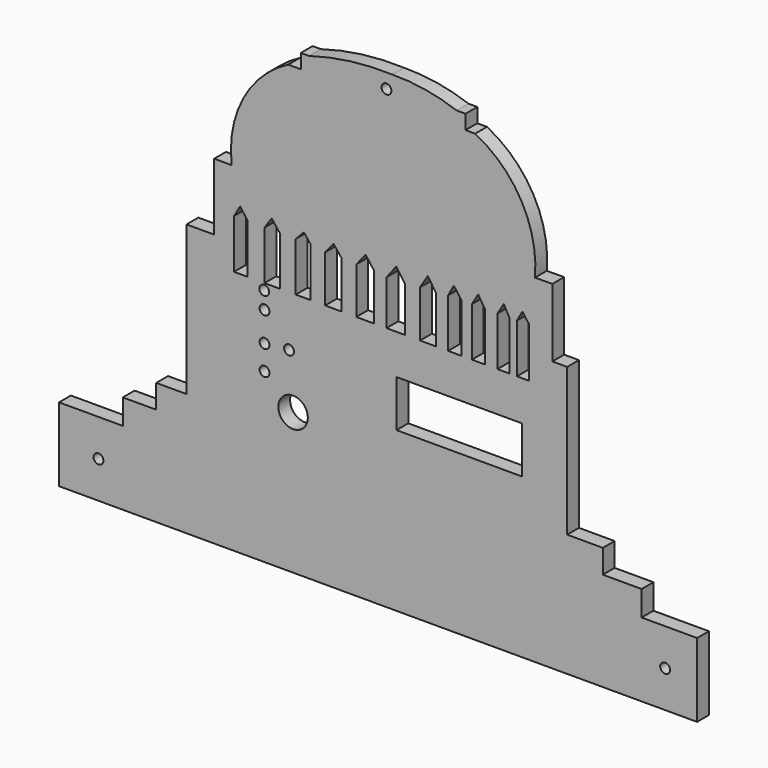
from build123d import *

# Parameters (mm, degrees)
F0_R          = 2
F0_R_2        = 6
F0_W          = 51
F0_H          = 19
F1_DEPTH      = 3
F1_DEPTH_BACK = 3
F2_DEPTH      = 3


with BuildPart() as f1:
    # F0 (on Front) → F1 (new body, two sides)
    with BuildSketch(Plane.XZ) as f1_sk:
        Polygon((52.472187, -161.24922), (26.581464, -161.24922), (26.581464, -191.24922), (285.798032, -191.24922), (285.798032, -161.24922), (263.240432, -161.24922), align=None)
        with Locations((42.581464, -176.24922)):
            Circle(F0_R, mode=Mode.SUBTRACT)
        with Locations((272.798032, -176.24922)):
            Circle(F0_R, mode=Mode.SUBTRACT)
        Polygon((52.472187, -151.052892), (52.472187, -161.24922), (263.240432, -161.24922), (263.240432, -151.052892), (247.487148, -151.052892), (66.052614, -151.052892), align=None)
        Polygon((66.052614, -141.450859), (66.052614, -151.052892), (247.487148, -151.052892), (247.487148, -141.450859), (233.003996, -141.450859), (78.357242, -141.450859), align=None)
        Polygon((78.357242, -80.774188), (78.357242, -141.450859), (233.003996, -141.450859), (233.003996, -81.450859), (226.991639, -81.450859), (221.457498, -91.450859), (217.57254, -91.450859), (212.587059, -91.450859), (209.57654, -91.450859), (204.673612, -91.450859), (199.559822, -91.450859), (194.298849, -91.450859), (190.03109, -91.450859), (184.636118, -91.450859), (179.739267, -91.450859), (173.225334, -91.450859), (167.207984, -91.450859), (159.590964, -91.450859), (154.603716, -91.450859), (147.321078, -91.450859), (141.375312, -91.450859), (134.690078, -91.450859), (128.813708, -91.450859), (122.717327, -91.450859), (116.260559, -91.450859), (110.056117, -91.450859), (103.166793, -91.450859), (97.665451, -91.450859), (89.594654, -80.774188), align=None)
        with Locations((121.645503, -133.909166)):
            Circle(F0_R_2, mode=Mode.SUBTRACT)
        with Locations((110.056117, -123.021676)):
            Circle(F0_R, mode=Mode.SUBTRACT)
        with Locations((110.056117, -113.021676)):
            Circle(F0_R, mode=Mode.SUBTRACT)
        with Locations((120.015055, -112.116382)):
            Circle(F0_R, mode=Mode.SUBTRACT)
        with Locations((110.056117, -101.021676)):
            Circle(F0_R, mode=Mode.SUBTRACT)
        with Locations((189.145503, -117.110979)):
            Rectangle(F0_W, F0_H, mode=Mode.SUBTRACT)
        with Locations((109.930342, -94.096712)):
            Circle(F0_R, mode=Mode.SUBTRACT)
        Polygon((89.594654, -53.617763), (89.594654, -80.774188), (97.665451, -91.450859), (97.665451, -71.488872), (100.125542, -67.256524), (103.166793, -71.279724), (103.166793, -91.450859), (110.056117, -91.450859), (110.056117, -71.586892), (112.953584, -67.329317), (116.260559, -71.586892), (116.260559, -91.450859), (122.717327, -91.450859), (122.717327, -71.556566), (126.055585, -68.058384), (128.813708, -71.556566), (128.813708, -91.450859), (134.690078, -91.450859), (134.690078, -72.430915), (138.060334, -68.216196), (141.375312, -72.430915), (141.375312, -91.450859), (147.321078, -91.450859), (147.321078, -72.639709), (151.104841, -67.914439), (154.603716, -72.639709), (154.603716, -91.450859), (159.590964, -91.450859), (159.590964, -73.276494), (163.56732, -68.100847), (167.207984, -73.276494), (167.207984, -91.450859), (173.225334, -91.450859), (173.225334, -72.414774), (176.386258, -67.362841), (179.739267, -72.414774), (179.739267, -91.450859), (184.636118, -91.450859), (184.636118, -71.586892), (186.982751, -67.329317), (190.03109, -71.586892), (190.03109, -91.450859), (194.298849, -91.450859), (194.298849, -71.586892), (196.836814, -67.257442), (199.559822, -71.586892), (199.559822, -91.450859), (204.673612, -91.450859), (204.673612, -71.586892), (207.251813, -67.329317), (209.57654, -71.586892), (209.57654, -91.450859), (212.587059, -91.450859), (212.587059, -71.512245), (214.826435, -67.556024), (217.57254, -71.284115), (217.57254, -91.450859), (221.457498, -91.450859), (226.991639, -81.450859), (226.991639, -53.721661), (219.91986, -53.783055), (198.035091, -53.973049), (96.72894, -53.617763), align=None)
        with BuildLine():
            ThreePointArc((119.692937, -10.181499), (101.370795, -28.283366), (96.72894, -53.617763))
            Line((96.72894, -53.617763), (198.035091, -53.973049))
            Line((198.035091, -53.973049), (219.91986, -53.783055))
            ThreePointArc((219.91986, -53.783055), (214.480878, -28.243005), (195.621964, -10.181499))
            Line((195.621964, -10.181499), (191.704065, -10.181499))
            Line((191.704065, -10.181499), (191.704065, -4.340463))
            Line((191.704065, -4.340463), (188.154012, -4.340463))
            ThreePointArc((188.154012, -4.340463), (175.263432, -1.007217), (161.987022, 0))
            ThreePointArc((161.987022, 0), (144.870074, -0.788162), (128.10725, -4.340463))
            Line((128.10725, -4.340463), (124.78289, -4.340463))
            Line((124.78289, -4.340463), (124.78289, -10.181499))
            Line((124.78289, -10.181499), (119.692937, -10.181499))
        make_face()
        with Locations((159.579262, -5.946493)):
            Circle(F0_R, mode=Mode.SUBTRACT)
    extrude(amount=F1_DEPTH)
    extrude(f1_sk.sketch, amount=-F1_DEPTH_BACK)

    # F0 (on Front) → F2 (join)
    with BuildSketch(Plane.XZ):
        Polygon((52.472187, -161.24922), (26.581464, -161.24922), (26.581464, -191.24922), (285.798032, -191.24922), (285.798032, -161.24922), (263.240432, -161.24922), align=None)
        with Locations((42.581464, -176.24922)):
            Circle(F0_R, mode=Mode.SUBTRACT)
        with Locations((272.798032, -176.24922)):
            Circle(F0_R, mode=Mode.SUBTRACT)
        Polygon((52.472187, -151.052892), (52.472187, -161.24922), (263.240432, -161.24922), (263.240432, -151.052892), (247.487148, -151.052892), (66.052614, -151.052892), align=None)
        Polygon((66.052614, -141.450859), (66.052614, -151.052892), (247.487148, -151.052892), (247.487148, -141.450859), (233.003996, -141.450859), (78.357242, -141.450859), align=None)
        Polygon((78.357242, -80.774188), (78.357242, -141.450859), (233.003996, -141.450859), (233.003996, -81.450859), (226.991639, -81.450859), (221.457498, -91.450859), (217.57254, -91.450859), (212.587059, -91.450859), (209.57654, -91.450859), (204.673612, -91.450859), (199.559822, -91.450859), (194.298849, -91.450859), (190.03109, -91.450859), (184.636118, -91.450859), (179.739267, -91.450859), (173.225334, -91.450859), (167.207984, -91.450859), (159.590964, -91.450859), (154.603716, -91.450859), (147.321078, -91.450859), (141.375312, -91.450859), (134.690078, -91.450859), (128.813708, -91.450859), (122.717327, -91.450859), (116.260559, -91.450859), (110.056117, -91.450859), (103.166793, -91.450859), (97.665451, -91.450859), (89.594654, -80.774188), align=None)
        with Locations((121.645503, -133.909166)):
            Circle(F0_R_2, mode=Mode.SUBTRACT)
        with Locations((110.056117, -123.021676)):
            Circle(F0_R, mode=Mode.SUBTRACT)
        with Locations((110.056117, -113.021676)):
            Circle(F0_R, mode=Mode.SUBTRACT)
        with Locations((120.015055, -112.116382)):
            Circle(F0_R, mode=Mode.SUBTRACT)
        with Locations((110.056117, -101.021676)):
            Circle(F0_R, mode=Mode.SUBTRACT)
        with Locations((189.145503, -117.110979)):
            Rectangle(F0_W, F0_H, mode=Mode.SUBTRACT)
        with Locations((109.930342, -94.096712)):
            Circle(F0_R, mode=Mode.SUBTRACT)
        Polygon((89.594654, -53.617763), (89.594654, -80.774188), (97.665451, -91.450859), (97.665451, -71.488872), (100.125542, -67.256524), (103.166793, -71.279724), (103.166793, -91.450859), (110.056117, -91.450859), (110.056117, -71.586892), (112.953584, -67.329317), (116.260559, -71.586892), (116.260559, -91.450859), (122.717327, -91.450859), (122.717327, -71.556566), (126.055585, -68.058384), (128.813708, -71.556566), (128.813708, -91.450859), (134.690078, -91.450859), (134.690078, -72.430915), (138.060334, -68.216196), (141.375312, -72.430915), (141.375312, -91.450859), (147.321078, -91.450859), (147.321078, -72.639709), (151.104841, -67.914439), (154.603716, -72.639709), (154.603716, -91.450859), (159.590964, -91.450859), (159.590964, -73.276494), (163.56732, -68.100847), (167.207984, -73.276494), (167.207984, -91.450859), (173.225334, -91.450859), (173.225334, -72.414774), (176.386258, -67.362841), (179.739267, -72.414774), (179.739267, -91.450859), (184.636118, -91.450859), (184.636118, -71.586892), (186.982751, -67.329317), (190.03109, -71.586892), (190.03109, -91.450859), (194.298849, -91.450859), (194.298849, -71.586892), (196.836814, -67.257442), (199.559822, -71.586892), (199.559822, -91.450859), (204.673612, -91.450859), (204.673612, -71.586892), (207.251813, -67.329317), (209.57654, -71.586892), (209.57654, -91.450859), (212.587059, -91.450859), (212.587059, -71.512245), (214.826435, -67.556024), (217.57254, -71.284115), (217.57254, -91.450859), (221.457498, -91.450859), (226.991639, -81.450859), (226.991639, -53.721661), (219.91986, -53.783055), (198.035091, -53.973049), (96.72894, -53.617763), align=None)
        with BuildLine():
            ThreePointArc((119.692937, -10.181499), (101.370795, -28.283366), (96.72894, -53.617763))
            Line((96.72894, -53.617763), (198.035091, -53.973049))
            Line((198.035091, -53.973049), (219.91986, -53.783055))
            ThreePointArc((219.91986, -53.783055), (214.480878, -28.243005), (195.621964, -10.181499))
            Line((195.621964, -10.181499), (191.704065, -10.181499))
            Line((191.704065, -10.181499), (191.704065, -4.340463))
            Line((191.704065, -4.340463), (188.154012, -4.340463))
            ThreePointArc((188.154012, -4.340463), (175.263432, -1.007217), (161.987022, 0))
            ThreePointArc((161.987022, 0), (144.870074, -0.788162), (128.10725, -4.340463))
            Line((128.10725, -4.340463), (124.78289, -4.340463))
            Line((124.78289, -4.340463), (124.78289, -10.181499))
            Line((124.78289, -10.181499), (119.692937, -10.181499))
        make_face()
        with Locations((159.579262, -5.946493)):
            Circle(F0_R, mode=Mode.SUBTRACT)
    extrude(amount=F2_DEPTH)


solid = f1.part
